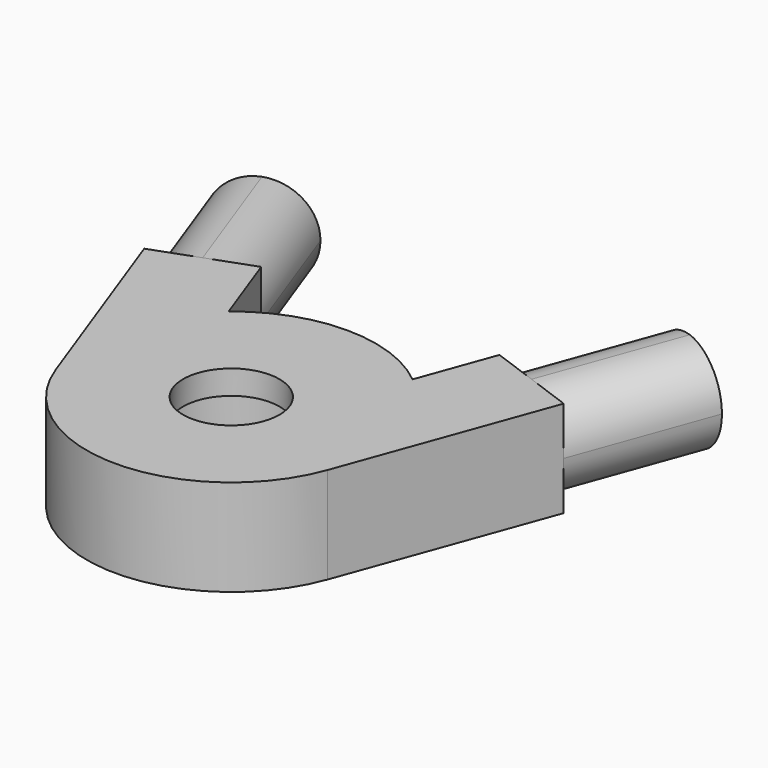
from build123d import *

# Parameters (mm, degrees)
F0_R      = 12.7
F1_DEPTH  = 25.4
F2_R      = 19.05
F3_DEPTH  = 19.05
F7_DEPTH  = 38.1
F5_R      = 21.59
F8_DEPTH  = 1.27
F10_DEPTH = 38.1


with BuildPart() as f1:
    # F0 (on Top) → F1 (new body)
    with BuildSketch(Plane.XY):
        with BuildLine():
            ThreePointArc((35.8022888519, -13.0309674607), (37.5211753898, -6.6159955691), (38.1, 0))
            ThreePointArc((38.1, 0), (34.4556582409, 16.26092295), (24.2198102265, 29.4110658187))
            ThreePointArc((24.2198102265, 29.4110658187), (0, 38.1), (-24.2198102265, 29.4110658187))
            ThreePointArc((-24.2198102265, 29.4110658187), (-36.7558790082, 10.0307207284), (-35.8022888519, -13.0309674607))
            ThreePointArc((-35.8022888519, -13.0309674607), (0, -38.1), (35.8022888519, -13.0309674607))
        make_face()
        Circle(F0_R, mode=Mode.SUBTRACT)
        with BuildLine():
            ThreePointArc((-35.8022888519, -13.0309674607), (-36.7558790082, 10.0307207284), (-24.2198102265, 29.4110658187))
            Line((-24.2198102265, 29.4110658187), (-44.4115124145, 84.8873116405))
            Line((-44.4115124145, 84.8873116405), (-68.2797049824, 76.2))
            Line((-68.2797049824, 76.2), (-35.8022888519, -13.0309674607))
        make_face()
        with BuildLine():
            ThreePointArc((24.2198102265, 29.4110658187), (34.4556582409, 16.26092295), (38.1, 0))
            ThreePointArc((38.1, 0), (37.5211753898, -6.6159955691), (35.8022888519, -13.0309674607))
            Line((35.8022888519, -13.0309674607), (68.2797049824, 76.2))
            Line((68.2797049824, 76.2), (44.4115124145, 84.8873116405))
            Line((44.4115124145, 84.8873116405), (24.2198102265, 29.4110658187))
        make_face()
    extrude(amount=F1_DEPTH)

    # F2 (on face) → F3 (cut)
    with BuildSketch(Plane(origin=(0, 0, 0), x_dir=(1, 0, 0), z_dir=(0, 0, -1))):
        Circle(F2_R)
    extrude(amount=-F3_DEPTH, mode=Mode.SUBTRACT)

    # F6 (on face) → F7 (cut)
    with BuildSketch(Plane(origin=(32.4774161305, 89.2309674607, 0), x_dir=(-0.9396926208, 0.3420201433, 0), z_dir=(0.3420201433, 0.9396926208, 0))):
        with BuildLine():
            ThreePointArc((-38.1, 12.7), (-34.3802561211, 21.6802561211), (-25.4, 25.4))
            Line((-25.4, 25.4), (-38.1, 25.4))
            Line((-38.1, 25.4), (-38.1, 12.7))
        make_face()
        with BuildLine():
            ThreePointArc((-25.4, 25.4), (-16.4197438789, 21.6802561211), (-12.7, 12.7))
            Line((-12.7, 12.7), (-12.7, 25.4))
            Line((-12.7, 25.4), (-25.4, 25.4))
        make_face()
        with BuildLine():
            Line((-12.7, 0), (-12.7, 12.7))
            ThreePointArc((-12.7, 12.7), (-16.4197438789, 3.7197438789), (-25.4, 0))
            Line((-25.4, 0), (-12.7, 0))
        make_face()
        with BuildLine():
            Line((-38.1, 0), (-25.4, 0))
            ThreePointArc((-25.4, 0), (-34.3802561211, 3.7197438789), (-38.1, 12.7))
            Line((-38.1, 12.7), (-38.1, 0))
        make_face()
    extrude(amount=-F7_DEPTH, mode=Mode.SUBTRACT)

    # F5 (on offset) → F8 (cut)
    with BuildSketch(Plane(origin=(0, 0, 3.81), x_dir=(1, 0, 0), z_dir=(0, 0, -1))):
        Circle(F5_R)
    extrude(amount=F8_DEPTH, mode=Mode.SUBTRACT)

    # F9 (on face) → F10 (cut)
    with BuildSketch(Plane(origin=(-32.4774161305, 89.2309674607, 0), x_dir=(-0.9396926208, -0.3420201433, 0), z_dir=(-0.3420201433, 0.9396926208, 0))):
        with BuildLine():
            ThreePointArc((12.7, 12.7), (16.4197438789, 21.6802561211), (25.4, 25.4))
            Line((25.4, 25.4), (12.7, 25.4))
            Line((12.7, 25.4), (12.7, 12.7))
        make_face()
        with BuildLine():
            ThreePointArc((25.4, 25.4), (34.3802561211, 21.6802561211), (38.1, 12.7))
            Line((38.1, 12.7), (38.1, 25.4))
            Line((38.1, 25.4), (25.4, 25.4))
        make_face()
        with BuildLine():
            Line((12.7, 0), (25.4, 0))
            ThreePointArc((25.4, 0), (16.4197438789, 3.7197438789), (12.7, 12.7))
            Line((12.7, 12.7), (12.7, 0))
        make_face()
        with BuildLine():
            Line((38.1, 0), (38.1, 12.7))
            ThreePointArc((38.1, 12.7), (34.3802561211, 3.7197438789), (25.4, 0))
            Line((25.4, 0), (38.1, 0))
        make_face()
    extrude(amount=-F10_DEPTH, mode=Mode.SUBTRACT)


solid = f1.part
